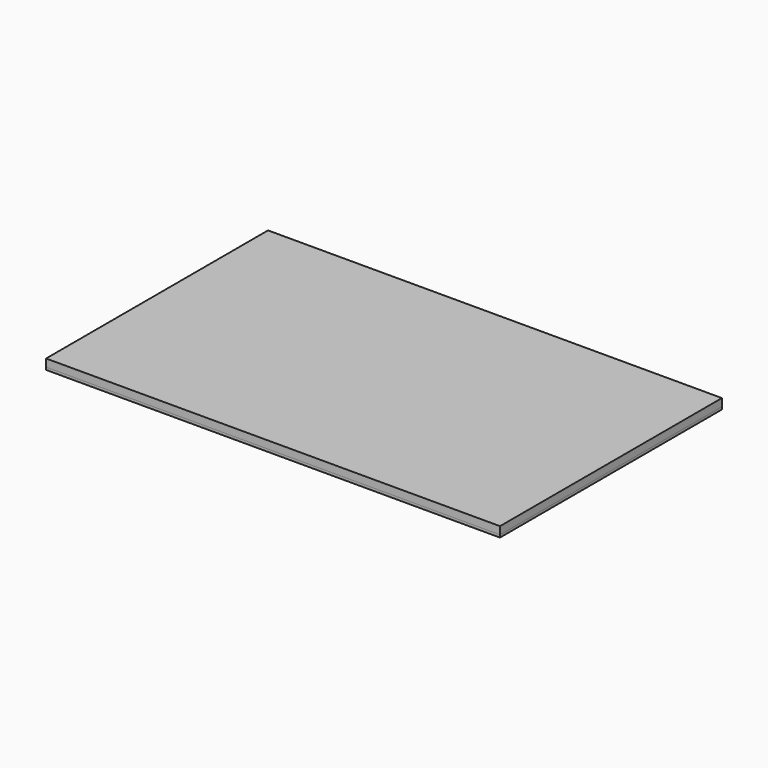
from build123d import *

# Parameters (mm, degrees)
F0_W     = 180
F0_H     = 110
F1_DEPTH = 3
F2_W     = 180
F2_H     = 110
F2_W_2   = 179
F2_H_2   = 109
F3_DEPTH = 1


with BuildPart() as f1:
    # F0 (on Top) → F1 (new body)
    with BuildSketch(Plane.XY):
        Rectangle(F0_W, F0_H)
    extrude(amount=F1_DEPTH)


with BuildPart() as f3:
    # F2 (on face) → F3 (new body)
    with BuildSketch(Plane(origin=(0, 0, 0), x_dir=(1, 0, 0), z_dir=(0, 0, -1))):
        Rectangle(F2_W, F2_H)
        Rectangle(F2_W_2, F2_H_2, mode=Mode.SUBTRACT)
    extrude(amount=F3_DEPTH)


solid = Compound([f1.part, f3.part])
